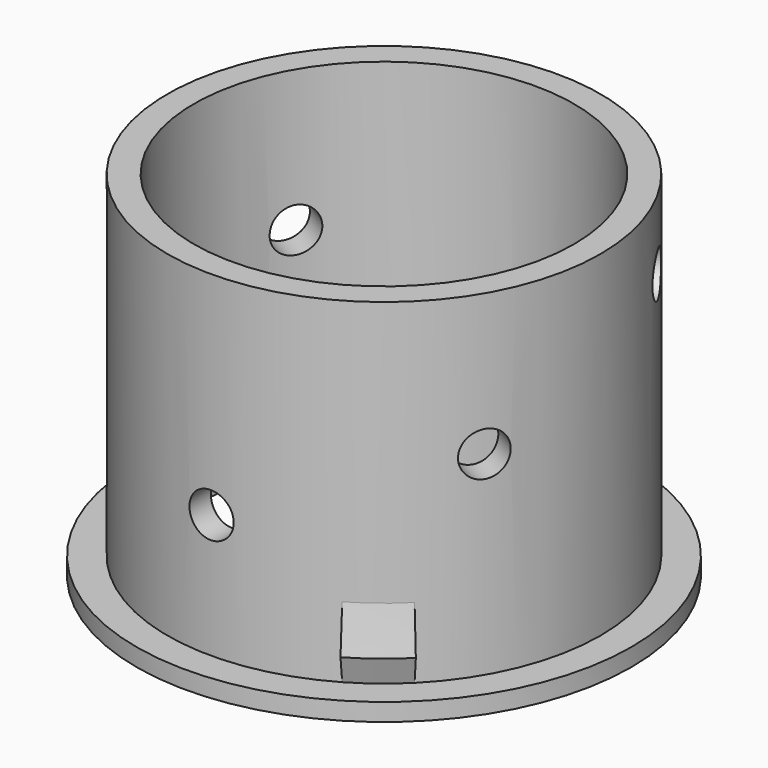
from build123d import *

# Parameters (mm, degrees)
F0_R           = 14
F1_DEPTH       = 1
F2_R           = 12.25
F3_DEPTH       = 20
F5_R           = 10.75
F6_DEPTH       = 25
F10_R          = 1.25
F11_DEPTH      = 14.001
F11_DEPTH_BACK = 25
F12_R          = 1.25
F13_DEPTH      = 25
F13_DEPTH_BACK = 25
F14_R          = 1.25
F15_DEPTH      = 25
F15_DEPTH_BACK = 25
F16_DEPTH      = 10
F18_ANGLE      = 15
F19_COUNT      = 3


with BuildPart() as f1:
    # F0 (on Top) → F1 (new body)
    with BuildSketch(Plane.XY):
        Circle(F0_R)
    extrude(amount=F1_DEPTH)


with BuildPart() as f3:
    # F2 (on Top) → F3 (new body)
    with BuildSketch(Plane.XY):
        Circle(F2_R)
    extrude(amount=F3_DEPTH)

    # F5 (on offset) → F6 (cut)
    with BuildSketch(Plane.XY.offset(1)):
        Circle(F5_R)
    extrude(amount=F6_DEPTH, mode=Mode.SUBTRACT)

    # F10 (on Front) → F11 (cut, two sides)
    with BuildSketch(Plane.XZ) as f11_sk:
        with Locations((0, 8)):
            Circle(F10_R)
    extrude(amount=-F11_DEPTH, mode=Mode.SUBTRACT)
    extrude(f11_sk.sketch, amount=F11_DEPTH_BACK, mode=Mode.SUBTRACT)

    # F12 (on line) → F13 (cut, two sides)
    with BuildSketch(Plane(origin=(0, 0, 0), x_dir=(-0.5, -0.8660254038, 0), z_dir=(-0.8660254038, 0.5, 0))) as f13_sk:
        with Locations((0, 12)):
            Circle(F12_R)
    extrude(amount=-F13_DEPTH, mode=Mode.SUBTRACT)
    extrude(f13_sk.sketch, amount=F13_DEPTH_BACK, mode=Mode.SUBTRACT)

    # F14 (on line) → F15 (cut, two sides)
    with BuildSketch(Plane(origin=(0, 0, 0), x_dir=(0.5, -0.8660254038, 0), z_dir=(-0.8660254038, -0.5, 0))) as f15_sk:
        with Locations((0, 16)):
            Circle(F14_R)
    extrude(amount=-F15_DEPTH, mode=Mode.SUBTRACT)
    extrude(f15_sk.sketch, amount=F15_DEPTH_BACK, mode=Mode.SUBTRACT)


with BuildPart() as f16_tool:
    # F5 (on offset) → F16 (new body)
    with BuildSketch(Plane.XY.offset(1)):
        Circle(F5_R)
    extrude(amount=-F16_DEPTH)


with BuildPart() as f1_1:
    add(f1.part)

    # F16: cut by f16_tool
    add(f16_tool.part, mode=Mode.SUBTRACT)



with BuildPart() as f3_1:
    add(f3.part)

    # F16: cut by f16_tool
    add(f16_tool.part, mode=Mode.SUBTRACT)


with BuildPart() as f18:
    # F17 (on Front) → F18 (revolve)
    with BuildSketch(Plane.XZ):
        Polygon((-12.75, 2.5), (-12.25, 1), (-12.25, 5), align=None)
    revolve(axis=Axis((0, 0, 28.278902173), (0, 0, 1)), revolution_arc=F18_ANGLE)


with BuildPart() as f1_2:
    add(f1_1.part)

    add(f3_1.part)  # F19 merges F3

    add(f18.part)  # F19 merges F18
    # F19: F18 ×3 about axis
    f19_axis = Axis((0, 0, 28.278902173), (0, 0, 1))
    for i in range(1, F19_COUNT):
        add(f18.part.rotate(f19_axis, i * 360 / F19_COUNT))


solid = f1_2.part
